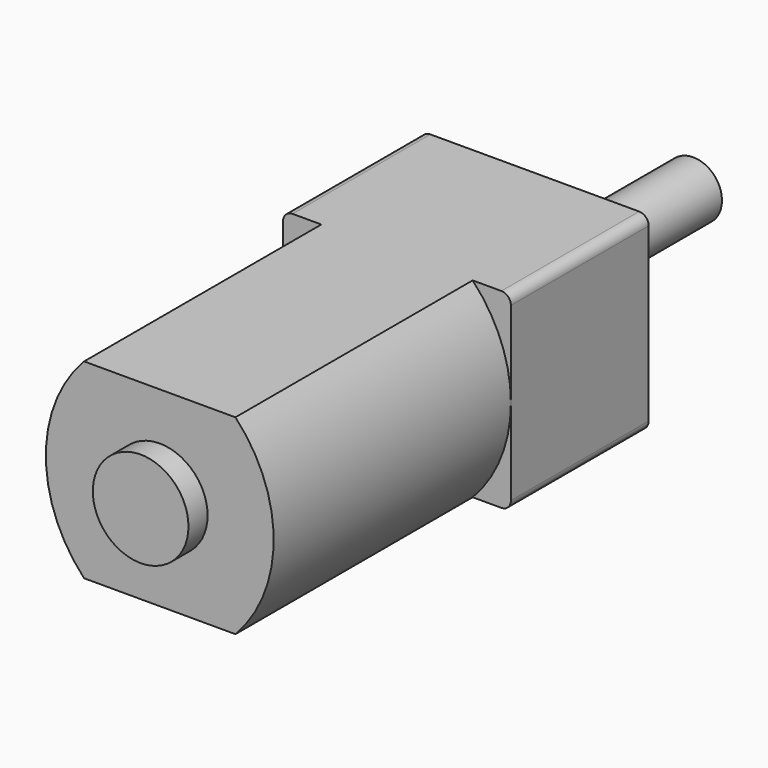
from build123d import *

# Parameters (mm, degrees)
F0_W      = 11.91
F0_H      = 15.5
F1_DEPTH  = 9.98
F3_DEPTH  = 25.4
F4_R      = 2.5
F5_DEPTH  = 1.25
F6_W      = 11.91
F6_H      = 9.98
F7_DEPTH  = 9
F8_R      = 2
F9_DEPTH  = 0.81
F10_R     = 1.5
F11_DEPTH = 9.55
F12_R     = 0.5


with BuildPart() as f1:
    # F0 (on Top) → F1 (new body)
    with BuildSketch(Plane.XY):
        Rectangle(F0_W, F0_H)
    extrude(amount=F1_DEPTH)

    # F2 (on face) → F3 (cut)
    with BuildSketch(Plane.XZ.offset(7.75)):
        with BuildLine():
            ThreePointArc((-3.955, 0), (-5.955, 4.99), (-3.955, 9.98))
            Line((-3.955, 9.98), (-7.13, 9.98))
            Line((-7.13, 9.98), (-7.13, 0))
            Line((-7.13, 0), (-3.955, 0))
        make_face()
        with BuildLine():
            Line((7.13, 9.98), (3.955, 9.98))
            ThreePointArc((3.955, 9.98), (5.955, 4.99), (3.955, 0))
            Line((3.955, 0), (7.13, 0))
            Line((7.13, 0), (7.13, 9.98))
        make_face()
    extrude(amount=-F3_DEPTH, mode=Mode.SUBTRACT)

    # F4 (on face) → F5 (join)
    with BuildSketch(Plane.XZ.offset(7.75)):
        with Locations((0, 4.99)):
            Circle(F4_R)
    extrude(amount=F5_DEPTH)

    # F6 (on face) → F7 (join)
    with BuildSketch(Plane(origin=(0, 7.75, 0), x_dir=(-1, 0, 0), z_dir=(0, 1, 0))):
        with Locations((0, 4.99)):
            Rectangle(F6_W, F6_H)
    extrude(amount=F7_DEPTH)

    # F8 (on face) → F9 (join)
    with BuildSketch(Plane(origin=(0, 16.75, 0), x_dir=(-1, 0, 0), z_dir=(0, 1, 0))):
        with Locations((0, 4.99)):
            Circle(F8_R)
    extrude(amount=F9_DEPTH)

    # F10 (on face) → F11 (join)
    with BuildSketch(Plane(origin=(0, 17.56, 0), x_dir=(-1, 0, 0), z_dir=(0, 1, 0))):
        with Locations((0, 4.99)):
            Circle(F10_R)
    extrude(amount=F11_DEPTH)

    # F12
    f12_edges = [f1.edges().sort_by_distance(p)[0] for p in [
        (5.955, 12.25, 9.98),
        (-5.955, 12.25, 9.98),
        (5.955, 12.25, 0),
        (-5.955, 12.25, 0),
    ]]
    fillet(f12_edges, radius=F12_R)


solid = f1.part
